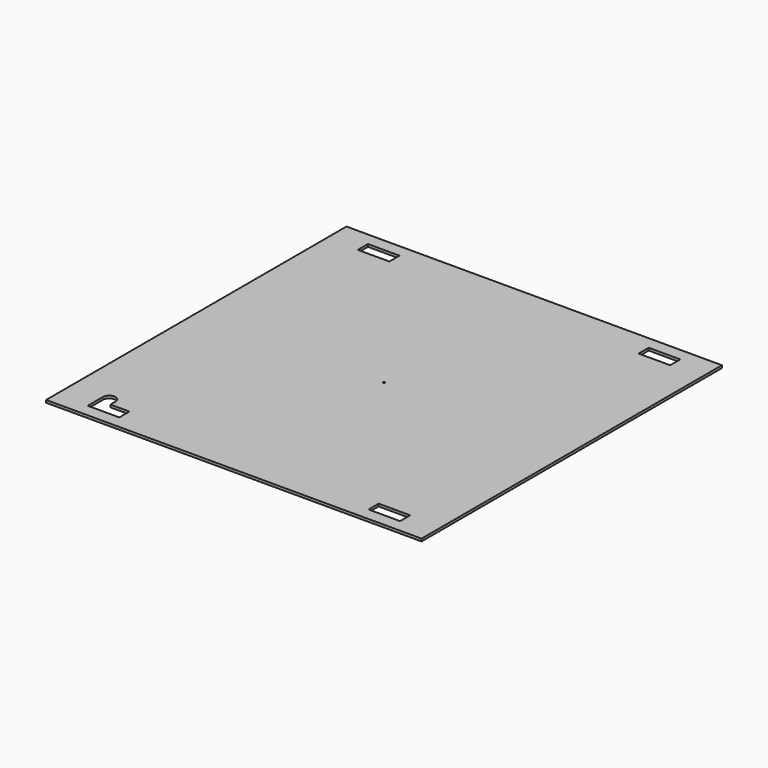
from build123d import *

# Parameters (mm, degrees)
F0_W     = 595
F0_H     = 595
F0_W_2   = 50
F0_H_2   = 20
F0_R     = 1.5
F1_DEPTH = 4


with BuildPart() as f1:
    # F0 (on Top) → F1 (new body)
    with BuildSketch(Plane.XY):
        Rectangle(F0_W, F0_H)
        with BuildLine():
            Line((-197.5, -277.5), (-247.5, -277.5))
            Line((-247.5, -277.5), (-247.5, -257.5))
            Line((-247.5, -257.5), (-247.5, -247.5))
            ThreePointArc((-247.5, -247.5), (-237.747767, -237.50307), (-227.512278, -247.004618))
            Line((-227.512278, -247.004618), (-227.512278, -257.5))
            Line((-227.512278, -257.5), (-197.5, -257.5))
            Line((-197.5, -257.5), (-197.5, -277.5))
        make_face(mode=Mode.SUBTRACT)
        with Locations((222.5, -267.5)):
            Rectangle(F0_W_2, F0_H_2, mode=Mode.SUBTRACT)
        with Locations((-222.5, 267.5)):
            Rectangle(F0_W_2, F0_H_2, mode=Mode.SUBTRACT)
        Circle(F0_R, mode=Mode.SUBTRACT)
        with Locations((222.5, 267.5)):
            Rectangle(F0_W_2, F0_H_2, mode=Mode.SUBTRACT)
    extrude(amount=F1_DEPTH)


solid = f1.part
